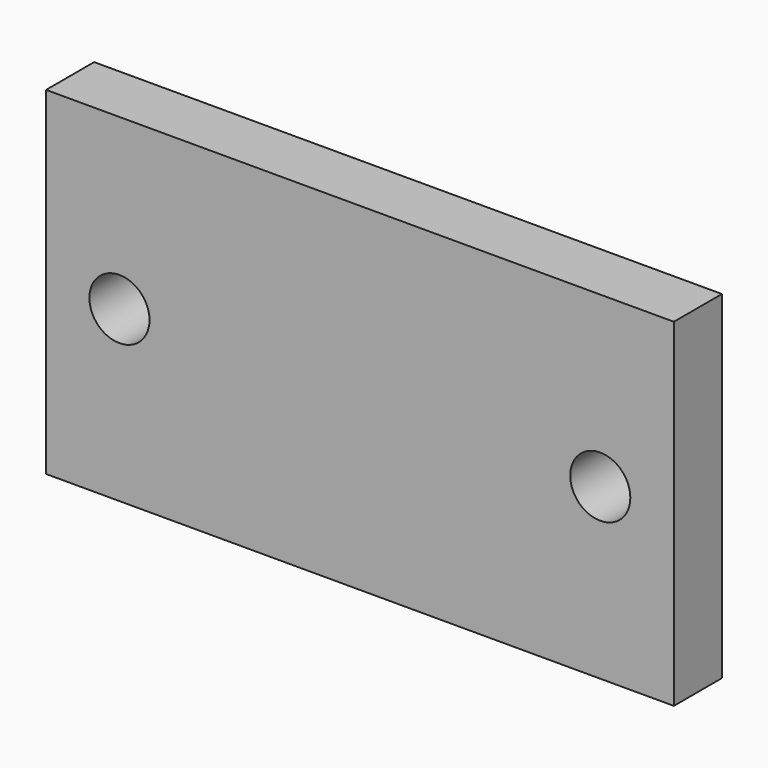
from build123d import *

# Parameters (mm, degrees)
F0_W     = 33.161669
F0_H     = 17.864211
F0_R     = 1.5875
F1_DEPTH = 3.175


with BuildPart() as f1:
    # F0 (on Front) → F1 (new body)
    with BuildSketch(Plane.XZ):
        with Locations((29.394839, -5e-06)):
            Rectangle(F0_W, F0_H)
        with Locations((16.689474, 0)):
            Circle(F0_R, mode=Mode.SUBTRACT)
        with Locations((42.089474, 0)):
            Circle(F0_R, mode=Mode.SUBTRACT)
    extrude(amount=F1_DEPTH)


solid = f1.part
